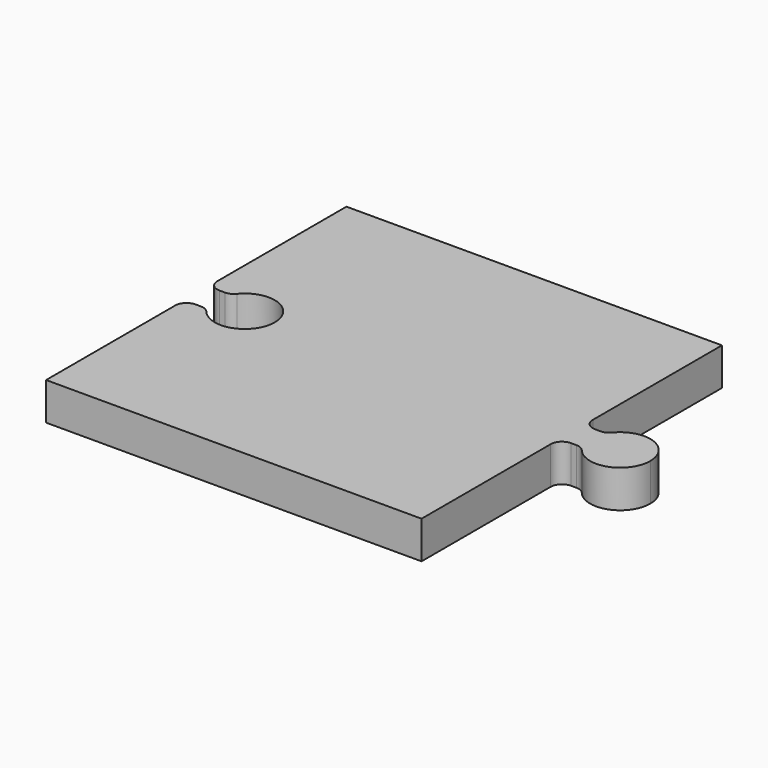
from build123d import *

# Parameters (mm, degrees)
F1_DEPTH = 5


with BuildPart() as f1:
    # F0 (on Top) → F1 (new body)
    with BuildSketch(Plane.XY):
        with BuildLine():
            Line((21.70305, 29.797339), (-28.29695, 29.797339))
            Line((-28.29695, 29.797339), (-28.29695, 8.297339))
            ThreePointArc((-28.29695, 8.297339), (-27.85761, 7.236679), (-26.79695, 6.797339))
            Line((-26.79695, 6.797339), (-26.079591, 6.797339))
            ThreePointArc((-26.079591, 6.797339), (-25.439988, 6.940538), (-24.922507, 7.342794))
            ThreePointArc((-24.922507, 7.342794), (-17.83695, 4.797339), (-24.922507, 2.251885))
            ThreePointArc((-24.922507, 2.251885), (-25.439988, 2.65414), (-26.079591, 2.797339))
            Line((-26.079591, 2.797339), (-26.79695, 2.797339))
            ThreePointArc((-26.79695, 2.797339), (-27.85761, 2.358), (-28.29695, 1.297339))
            Line((-28.29695, 1.297339), (-28.29695, -20.202661))
            Line((-28.29695, -20.202661), (21.70305, -20.202661))
            Line((21.70305, -20.202661), (21.70305, 1.297339))
            ThreePointArc((21.70305, 1.297339), (22.14239, 2.358), (23.20305, 2.797339))
            Line((23.20305, 2.797339), (23.920409, 2.797339))
            ThreePointArc((23.920409, 2.797339), (24.560012, 2.65414), (25.077493, 2.251885))
            ThreePointArc((25.077493, 2.251885), (29.515413, 1.032885), (32.16305, 4.797339))
            ThreePointArc((32.16305, 4.797339), (29.515413, 8.561793), (25.077493, 7.342794))
            ThreePointArc((25.077493, 7.342794), (24.560012, 6.940538), (23.920409, 6.797339))
            Line((23.920409, 6.797339), (23.20305, 6.797339))
            ThreePointArc((23.20305, 6.797339), (22.14239, 7.236679), (21.70305, 8.297339))
            Line((21.70305, 8.297339), (21.70305, 29.797339))
        make_face()
    extrude(amount=F1_DEPTH)


solid = f1.part
